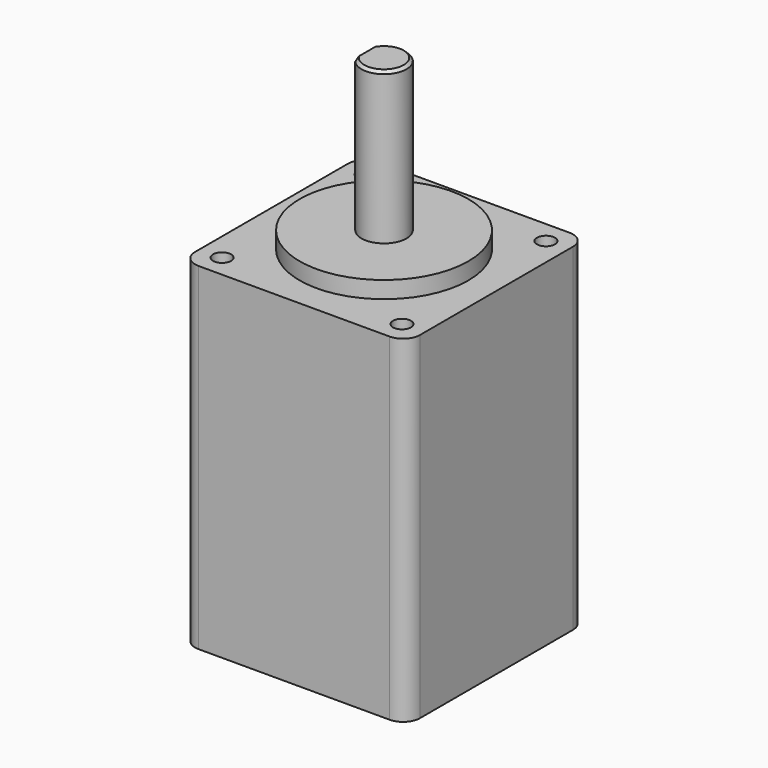
from build123d import *

# Parameters (mm, degrees)
SKETCH004_W     = 20
SKETCH004_H     = 20
PAD003_DEPTH    = 30
SKETCH005_R     = 7.5
PAD004_DEPTH    = 1.5
FILLET_R        = 1.5
SKETCH006_R     = 0.8
HOLE_DEPTH      = 3.019312
HOLE_TIPS_R     = 0.8
SKETCH007_R     = 2
PAD005_DEPTH    = 13.5
SKETCH008_W     = 5
SKETCH008_H     = 10
POCKET001_DEPTH = 12
CHAMFER001_SIZE = 0.25
SKETCH009_W     = 12
SKETCH009_H     = 9
PAD006_DEPTH    = 2


with BuildPart() as part:
    # Sketch004 → Pad003 (new body)
    with BuildSketch(Plane.XY):
        Rectangle(SKETCH004_W, SKETCH004_H)
    extrude(amount=PAD003_DEPTH)

    # Sketch005 (on Face6 of Pad003) → Pad004 (join)
    with BuildSketch(Plane.XY.offset(30)):
        Circle(SKETCH005_R)
    extrude(amount=PAD004_DEPTH)

    # Fillet
    fillet_edges = [part.edges().sort_by_distance(p)[0] for p in [
        (-10, -10, 15),
        (10, -10, 15),
        (10, 10, 15),
        (-10, 10, 15),
    ]]
    fillet(fillet_edges, radius=FILLET_R)

    # Sketch006 (on Face5 of Fillet) → Hole (cut)
    with BuildSketch(Plane.XY.offset(30)):
        with Locations((-8, 8)):
            Circle(SKETCH006_R)
        with Locations((8, 8)):
            Circle(SKETCH006_R)
        with Locations((8, -8)):
            Circle(SKETCH006_R)
        with Locations((-8, -8)):
            Circle(SKETCH006_R)
    extrude(amount=-HOLE_DEPTH, mode=Mode.SUBTRACT)

    # Hole tips → Hole tip 1 section 0
    with BuildSketch(Plane.XY.offset(26.980688), mode=Mode.PRIVATE) as hole_tip_1_s0:
        with Locations((-8, 8)):
            Circle(HOLE_TIPS_R)
    loft([hole_tip_1_s0.sketch, Vertex(-8, 8, 26.5)], mode=Mode.SUBTRACT)

    # Hole tips → Hole tip 2 section 0
    with BuildSketch(Plane.XY.offset(26.980688), mode=Mode.PRIVATE) as hole_tip_2_s0:
        with Locations((8, 8)):
            Circle(HOLE_TIPS_R)
    loft([hole_tip_2_s0.sketch, Vertex(8, 8, 26.5)], mode=Mode.SUBTRACT)

    # Hole tips → Hole tip 3 section 0
    with BuildSketch(Plane.XY.offset(26.980688), mode=Mode.PRIVATE) as hole_tip_3_s0:
        with Locations((8, -8)):
            Circle(HOLE_TIPS_R)
    loft([hole_tip_3_s0.sketch, Vertex(8, -8, 26.5)], mode=Mode.SUBTRACT)

    # Hole tips → Hole tip 4 section 0
    with BuildSketch(Plane.XY.offset(26.980688), mode=Mode.PRIVATE) as hole_tip_4_s0:
        with Locations((-8, -8)):
            Circle(HOLE_TIPS_R)
    loft([hole_tip_4_s0.sketch, Vertex(-8, -8, 26.5)], mode=Mode.SUBTRACT)

    # Sketch007 (on Face17 of Hole) → Pad005 (join)
    with BuildSketch(Plane.XY.offset(31.5)):
        Circle(SKETCH007_R)
    extrude(amount=PAD005_DEPTH)

    # Sketch008 (on Face22 of Pad005) → Pocket001 (cut)
    with BuildSketch(Plane.XY.offset(45)):
        with Locations((-4, 0)):
            Rectangle(SKETCH008_W, SKETCH008_H)
    extrude(amount=-POCKET001_DEPTH, mode=Mode.SUBTRACT)

    # Chamfer001
    chamfer001_edges = [part.edges().sort_by_distance(p)[0] for p in [
        (0.707107, -1.870829, 45),
        (0.707107, 1.870829, 45),
    ]]
    chamfer(chamfer001_edges, length=CHAMFER001_SIZE)

    # Sketch009 (on Face13 of Chamfer001) → Pad006 (join)
    with BuildSketch(Plane(origin=(-10, 0, 0), x_dir=(0, -1, 0), z_dir=(-1, 0, 0))):
        with Locations((0, 4.5)):
            Rectangle(SKETCH009_W, SKETCH009_H)
    extrude(amount=PAD006_DEPTH)


solid = part.part
